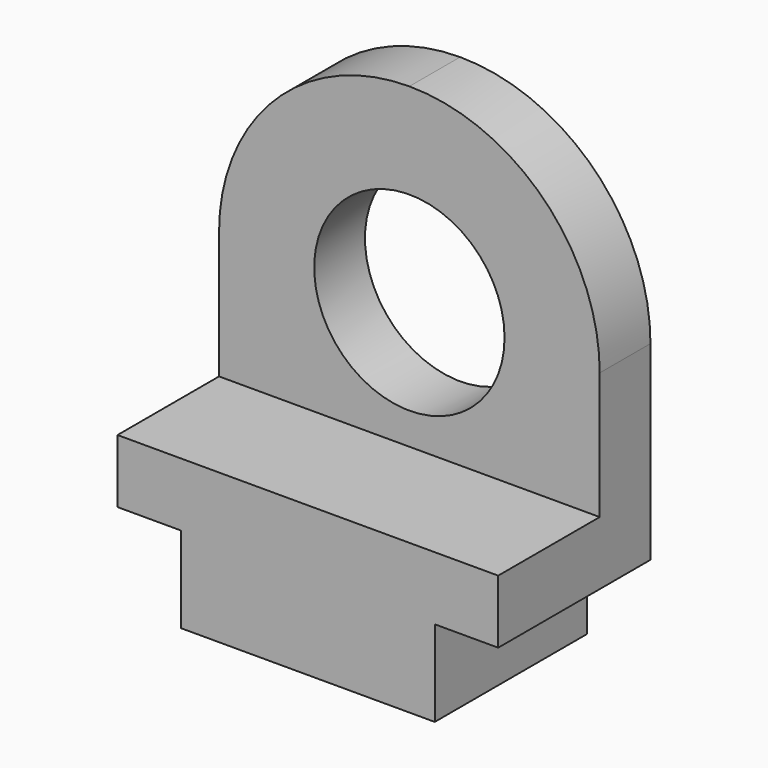
from build123d import *

# Parameters (mm, degrees)
F1_DEPTH = 76.2
F2_W     = 50.8
F2_H     = 127
F3_DEPTH = 152.401
F4_R     = 38.1
F5_DEPTH = 25.401
F7_DEPTH = 25.401


with BuildPart() as f1:
    # F0 (on Front) → F1 (new body)
    with BuildSketch(Plane.XZ):
        Polygon((0, 34.412902), (0, 0), (101.6, 0), (101.6, 34.412902), (127, 34.412902), (127, 186.812902), (-25.4, 186.812902), (-25.4, 34.412902), align=None)
    extrude(amount=-F1_DEPTH)

    # F2 (on face) → F3 (cut, through all)
    with BuildSketch(Plane.YZ.offset(127)):
        with Locations((25.4, 123.312902)):
            Rectangle(F2_W, F2_H)
    extrude(amount=-F3_DEPTH, mode=Mode.SUBTRACT)

    # F4 (on face) → F5 (cut, through all)
    with BuildSketch(Plane.XZ.offset(-50.8)):
        with Locations((50.8, 110.612902)):
            Circle(F4_R)
    extrude(amount=-F5_DEPTH, mode=Mode.SUBTRACT)

    # F6 (on face) → F7 (cut, through all)
    with BuildSketch(Plane.XZ.offset(-50.8)):
        with BuildLine():
            Line((50.8, 186.812902), (-25.4, 186.812902))
            Line((-25.4, 186.812902), (-25.4, 110.612902))
            ThreePointArc((-25.4, 110.612902), (-3.081537, 164.494439), (50.8, 186.812902))
        make_face()
        with BuildLine():
            Line((127, 186.812902), (50.8, 186.812902))
            ThreePointArc((50.8, 186.812902), (104.681537, 164.494439), (127, 110.612902))
            Line((127, 110.612902), (127, 186.812902))
        make_face()
    extrude(amount=-F7_DEPTH, mode=Mode.SUBTRACT)


solid = f1.part
